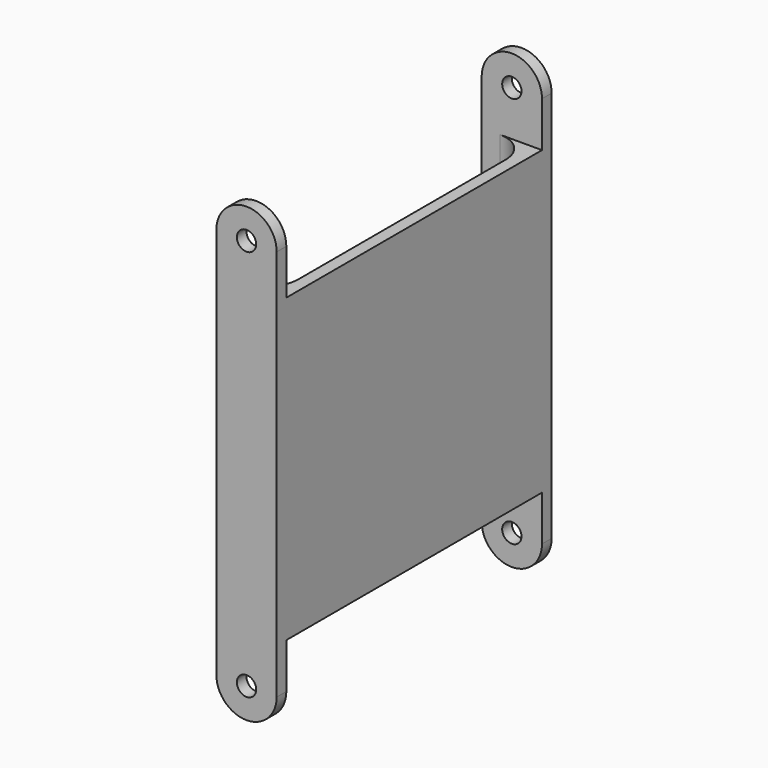
from build123d import *

# Parameters (mm, degrees)
SKETCH_W     = 53
SKETCH_H     = 50
PAD_DEPTH    = 2
SKETCH001_R  = 1.6
PAD001_DEPTH = 2
SKETCH002_R  = 1.6
PAD002_DEPTH = 2
SKETCH003_W  = 53
SKETCH003_H  = 4
PAD003_DEPTH = 6
POCKET_DEPTH = 50
FILLET_R     = 5


with BuildPart() as part:
    # Sketch → Pad (new body)
    with BuildSketch(Plane.YZ.offset(27)):
        Rectangle(SKETCH_W, SKETCH_H)
    extrude(amount=PAD_DEPTH)

    # Sketch001 (on Face4 of Pad) → Pad001 (join)
    with BuildSketch(Plane(origin=(27, -26.5, 0), x_dir=(0, 0, -1), z_dir=(0, -1, 0))):
        with BuildLine():
            Line((-32.5, 2), (32.5, 2))
            ThreePointArc((32.5, -8), (37.5, -3), (32.5, 2))
            Line((-32.5, -8), (32.5, -8))
            ThreePointArc((-32.5, 2), (-37.5, -3), (-32.5, -8))
        make_face()
        with Locations((-32.5, -3)):
            Circle(SKETCH001_R, mode=Mode.SUBTRACT)
        with Locations((32.5, -3)):
            Circle(SKETCH001_R, mode=Mode.SUBTRACT)
    extrude(amount=PAD001_DEPTH)

    # Sketch002 (on Face13 of Pad001) → Pad002 (join)
    with BuildSketch(Plane(origin=(27, 26.5, 0), x_dir=(0, 0, 1), z_dir=(0, 1, 0))):
        with BuildLine():
            Line((-32.5, 2), (32.5, 2))
            ThreePointArc((32.5, -8), (37.5, -3), (32.5, 2))
            Line((32.5, -8), (-32.5, -8))
            ThreePointArc((-32.5, 2), (-37.5, -3), (-32.5, -8))
        make_face()
        with Locations((-32.5, -3)):
            Circle(SKETCH002_R, mode=Mode.SUBTRACT)
        with Locations((32.5, -3)):
            Circle(SKETCH002_R, mode=Mode.SUBTRACT)
    extrude(amount=PAD002_DEPTH)

    # Sketch003 (on Face8 of Pad002) → Pad003 (join)
    with BuildSketch(Plane(origin=(27, 0, 0), x_dir=(0, 1, 0), z_dir=(-1, 0, 0))):
        with Locations((0, -15)):
            Rectangle(SKETCH003_W, SKETCH003_H)
        with Locations((0, 15)):
            Rectangle(SKETCH003_W, SKETCH003_H)
    extrude(amount=PAD003_DEPTH)

    # Sketch004 (on Face9 of Pad003) → Pocket (cut)
    with BuildSketch(Plane(origin=(27, 0, -17), x_dir=(0, 1, 0), z_dir=(0, 0, -1))):
        with BuildLine():
            ThreePointArc((-7, 0), (-7.942809, -0.390524), (-8.333333, -1.333333))
            Line((-8.333333, -2.666667), (-8.333333, -1.333333))
            ThreePointArc((-8.333333, -2.666667), (-7.942809, -3.609476), (-7, -4))
            Line((7, -4), (-7, -4))
            ThreePointArc((7, -4), (7.942809, -3.609476), (8.333333, -2.666667))
            Line((8.333333, -1.333333), (8.333333, -2.666667))
            ThreePointArc((8.333333, -1.333333), (7.942809, -0.390524), (7, 0))
            Line((-7, 0), (7, 0))
        make_face()
    extrude(amount=-POCKET_DEPTH, mode=Mode.SUBTRACT)

    # Fillet
    fillet_edges = [part.edges().sort_by_distance(p)[0] for p in [
        (27, 26.5, 0),
        (27, -26.5, 0),
        (27, 26.5, 21),
        (27, -26.5, 21),
        (27, -26.5, -21),
        (27, 26.5, -21),
    ]]
    fillet(fillet_edges, radius=FILLET_R)


solid = part.part
